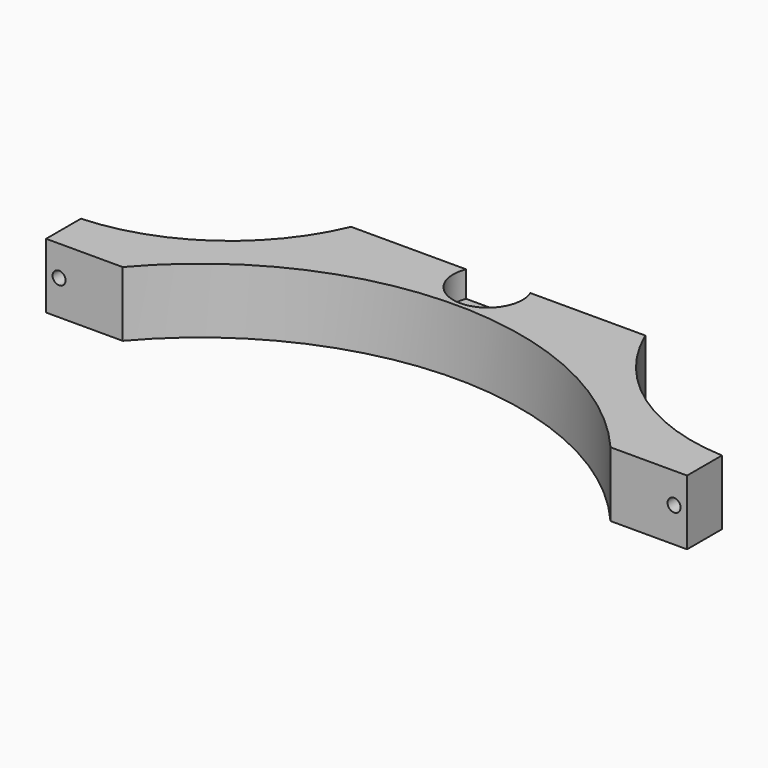
from build123d import *

# Parameters (mm, degrees)
CYLINDER684_R     = 8
CYLINDER684_DEPTH = 6
CYLINDER677_R     = 3
CYLINDER677_DEPTH = 50
CYLINDER678_R     = 3
CYLINDER678_DEPTH = 50
CYLINDER670_R     = 1.5
CYLINDER670_DEPTH = 50
CYLINDER679_R     = 1.5
CYLINDER679_DEPTH = 50
CYLINDER667_R     = 74
CYLINDER667_DEPTH = 15
CYLINDER665_R     = 46
CYLINDER665_DEPTH = 36
CYLINDER666_R     = 46
CYLINDER666_DEPTH = 36
BOX752_W          = 148
BOX752_H          = 38
BOX752_DEPTH      = 15


with BuildPart() as obj1:
    # Cylinder684 → Cylinder684 (new body)
    with BuildSketch(Plane(origin=(0, 83, 25), x_dir=(1, 0, 0), z_dir=(0, 0, 1))):
        Circle(CYLINDER684_R)
    extrude(amount=CYLINDER684_DEPTH)


with BuildPart() as obj2:
    # Cylinder677 → Cylinder677 (new body)
    with BuildSketch(Plane(origin=(-71, 106, 24), x_dir=(1, 0, 0), z_dir=(0, -1, 0))):
        Circle(CYLINDER677_R)
    extrude(amount=CYLINDER677_DEPTH)


with BuildPart() as compound398:
    # Cylinder678 → Cylinder678 (new body)
    with BuildSketch(Plane(origin=(71, 106, 24), x_dir=(1, 0, 0), z_dir=(0, -1, 0))):
        Circle(CYLINDER678_R)
    extrude(amount=CYLINDER678_DEPTH)

    # Compound398: union obj2
    add(obj2.part)


with BuildPart() as obj3:
    # Cylinder670 → Cylinder670 (new body)
    with BuildSketch(Plane(origin=(-71, 80, 24), x_dir=(1, 0, 0), z_dir=(0, -1, 0))):
        Circle(CYLINDER670_R)
    extrude(amount=CYLINDER670_DEPTH)


with BuildPart() as compound395:
    # Cylinder679 → Cylinder679 (new body)
    with BuildSketch(Plane(origin=(71, 80, 24), x_dir=(1, 0, 0), z_dir=(0, -1, 0))):
        Circle(CYLINDER679_R)
    extrude(amount=CYLINDER679_DEPTH)

    # Compound395: union obj3
    add(obj3.part)


with BuildPart() as obj4:
    # Cylinder667 → Cylinder667 (new body)
    with BuildSketch(Plane.XY.offset(16)):
        Circle(CYLINDER667_R)
    extrude(amount=CYLINDER667_DEPTH)


with BuildPart() as obj5:
    # Cylinder665 → Cylinder665 (new body)
    with BuildSketch(Plane(origin=(76.3, 104, 16), x_dir=(1, 0, 0), z_dir=(0, 0, 1))):
        Circle(CYLINDER665_R)
    extrude(amount=CYLINDER665_DEPTH)


with BuildPart() as obj6:
    # Cylinder666 → Cylinder666 (new body)
    with BuildSketch(Plane(origin=(-76.3, 104, 16), x_dir=(1, 0, 0), z_dir=(0, 0, 1))):
        Circle(CYLINDER666_R)
    extrude(amount=CYLINDER666_DEPTH)


with BuildPart() as cut278:
    # Box752 → Box752 (new body)
    with BuildSketch(Plane(origin=(-74, 48, 16), x_dir=(1, 0, 0), z_dir=(0, 0, 1))):
        with Locations((74, 19)):
            Rectangle(BOX752_W, BOX752_H)
    extrude(amount=BOX752_DEPTH)

    # Cut269: cut obj6
    add(obj6.part, mode=Mode.SUBTRACT)

    # Cut270: cut obj5
    add(obj5.part, mode=Mode.SUBTRACT)

    # Cut267: cut obj4
    add(obj4.part, mode=Mode.SUBTRACT)

    # Cut272: cut Compound395
    add(compound395.part, mode=Mode.SUBTRACT)

    # Cut273: cut Compound398
    add(compound398.part, mode=Mode.SUBTRACT)

    # Cut278: cut obj1
    add(obj1.part, mode=Mode.SUBTRACT)


solid = cut278.part
